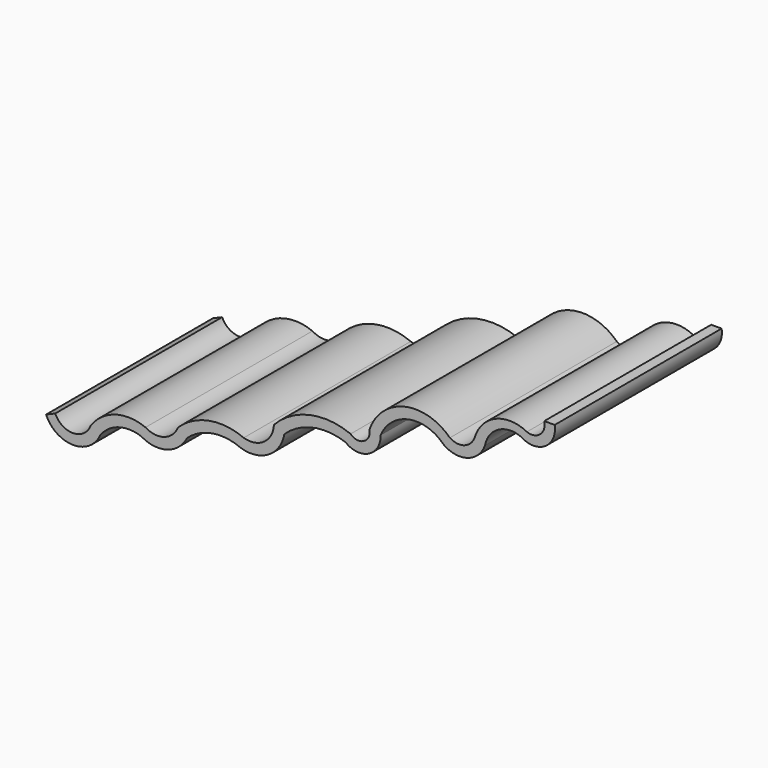
from build123d import *

# Parameters (mm, degrees)
F1_DEPTH = 600
F2_SCALE = 0.05


with BuildPart() as f1:
    # F0 (on Front) → F1 (new body)
    with BuildSketch(Plane.XZ):
        with BuildLine():
            ThreePointArc((61.6981868759, -156.7804584282), (100.7065045541, -104.0536614141), (166.2578148149, -101.8651243339))
            ThreePointArc((166.2578148149, -101.8651243339), (234.5706017685, -102.3542066993), (262.0286199157, -39.8007631302))
            Line((262.0286199157, -39.8007631302), (232.0286199157, -39.8007631302))
            ThreePointArc((232.0286199157, -39.8007631302), (220.3270095968, -76.8947720093), (181.9898807979, -83.4642266467))
            ThreePointArc((181.9898807979, -83.4642266467), (91.5920282917, -79.7638141441), (31.6545822361, -147.5352487664))
            ThreePointArc((31.6545822361, -147.5352487664), (1.6248156852, -176.1076949063), (-39.447124446, -170.5159785892))
            ThreePointArc((-39.447124446, -170.5159785892), (-169.9008498928, -133.9983520675), (-270.591032296, -224.625051761))
            ThreePointArc((-270.591032296, -224.625051761), (-286.994576577, -259.2648551162), (-324.8766044906, -253.4386897714))
            ThreePointArc((-324.8766044906, -253.4386897714), (-442.700846566, -243.7668486442), (-545.5168232681, -302.1189819919))
            ThreePointArc((-545.5168232681, -302.1189819919), (-573.8177442269, -354.034710969), (-632.2241682982, -363.2474559211))
            ThreePointArc((-632.2241682982, -363.2474559211), (-732.1850111207, -352.4717100275), (-821.4397877993, -398.7520691164))
            ThreePointArc((-821.4397877993, -398.7520691164), (-861.0082565563, -435.6027004967), (-914.6400588397, -428.727925101))
            ThreePointArc((-914.6400588397, -428.727925101), (-1001.2375020301, -424.4006624695), (-1071.9371653137, -474.5942873694))
            ThreePointArc((-1071.9371653137, -474.5942873694), (-1121.9433867392, -510.9844689633), (-1174.282657069, -478.0380233425))
            Line((-1174.282657069, -478.0380233425), (-1200.6295919418, -489.2707765102))
            ThreePointArc((-1200.6295919418, -489.2707765102), (-1122.3173141479, -541.0156529506), (-1044.0050363541, -489.2707765102))
            ThreePointArc((-1044.0050363541, -489.2707765102), (-990.8258747933, -453.0472518869), (-926.5367984772, -455.7083845139))
            ThreePointArc((-926.5367984772, -455.7083845139), (-852.2817356077, -464.7624409766), (-795.0841188431, -416.5522456169))
            ThreePointArc((-795.0841188431, -416.5522456169), (-721.8668399969, -381.376653159), (-641.256570816, -391.3804888725))
            ThreePointArc((-641.256570816, -391.3804888725), (-561.0317231877, -382.4484527561), (-515.3976082802, -315.8651590347))
            ThreePointArc((-515.3976082802, -315.8651590347), (-432.4777715288, -272.5756783272), (-339.1951322556, -279.5058786869))
            ThreePointArc((-339.1951322556, -279.5058786869), (-272.5284476889, -286.322697109), (-238.527655899, -228.5744330469))
            ThreePointArc((-238.527655899, -228.5744330469), (-157.3260560472, -162.3002128263), (-57.2985954116, -193.6128173673))
            ThreePointArc((-57.2985954116, -193.6128173673), (11.4078831222, -204.9458258943), (61.6981868759, -156.7804584282))
        make_face()
    extrude(amount=F1_DEPTH)


with BuildPart() as f1_1:
    # F2: moved
    add(f1.part.scale(F2_SCALE).moved(Location((248.9271889199, -570, -37.8107249737))))


solid = f1_1.part
